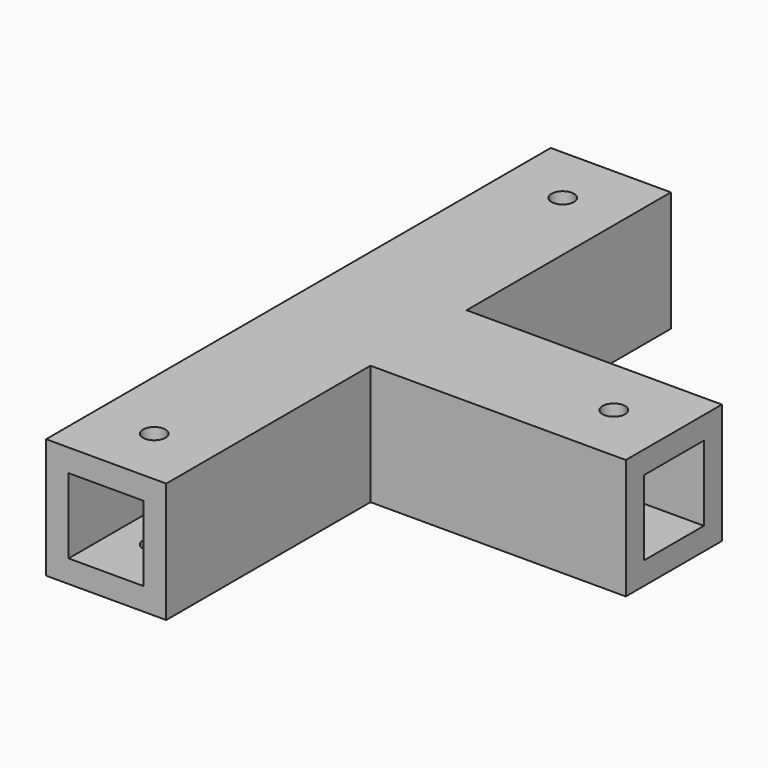
from build123d import *

# Parameters (mm, degrees)
F0_W     = 16
F0_H     = 34
F1_DEPTH = 16
F2_W     = 10
F2_H     = 10
F3_DEPTH = 30
F4_W     = 10
F4_H     = 10
F5_DEPTH = 84
F6_R     = 1.5
F7_DEPTH = 16


with BuildPart() as f1:
    # F0 (on Top) → F1 (new body)
    with BuildSketch(Plane.XY):
        with Locations((-17, 33)):
            Rectangle(F0_W, F0_H)
        Polygon((-9, 16), (-25, 16), (-25, 0), (-9, 0), (25, 0), (25, 16), align=None)
        with Locations((-17, -17)):
            Rectangle(F0_W, F0_H)
    extrude(amount=F1_DEPTH)

    # F2 (on face) → F3 (cut)
    with BuildSketch(Plane.YZ.offset(25)):
        with Locations((8, 8)):
            Rectangle(F2_W, F2_H)
    extrude(amount=-F3_DEPTH, mode=Mode.SUBTRACT)

    # F4 (on face) → F5 (cut)
    with BuildSketch(Plane.XZ.offset(34)):
        with Locations((-17, 8)):
            Rectangle(F4_W, F4_H)
    extrude(amount=-F5_DEPTH, mode=Mode.SUBTRACT)

    # F6 (on face) → F7 (cut)
    with BuildSketch(Plane(origin=(0, 0, 0), x_dir=(1, 0, 0), z_dir=(0, 0, -1))):
        with Locations((-17, -42)):
            Circle(F6_R)
        with Locations((17, -8)):
            Circle(F6_R)
        with Locations((-17, 26)):
            Circle(F6_R)
    extrude(amount=-F7_DEPTH, mode=Mode.SUBTRACT)


solid = f1.part
